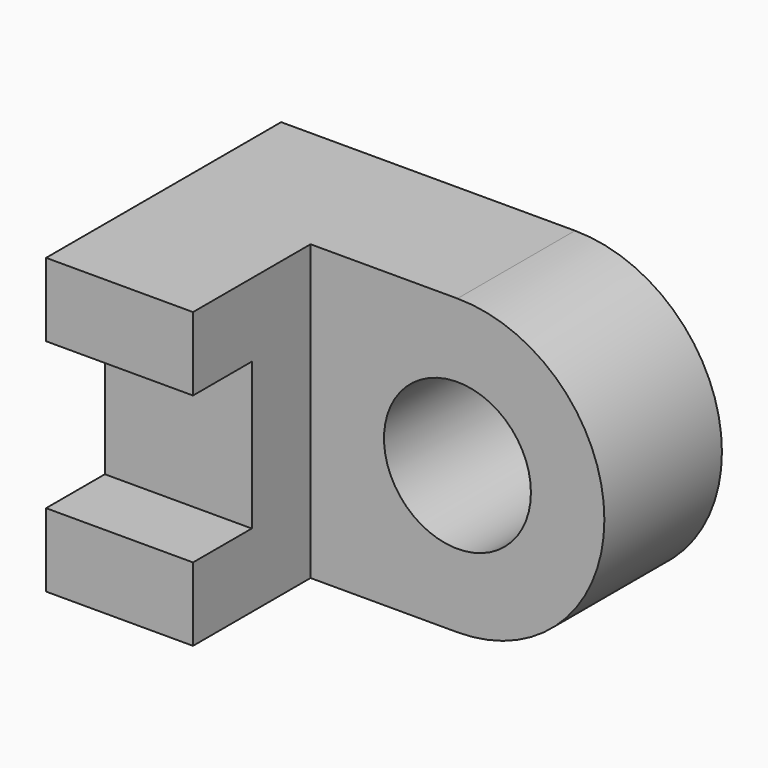
from build123d import *

# Parameters (mm, degrees)
F0_R     = 6.35
F1_DEPTH = 12.7
F3_DEPTH = 12.7


with BuildPart() as f1:
    # F0 (on Front) → F1 (new body)
    with BuildSketch(Plane.XZ):
        with BuildLine():
            Line((25.4, 0), (0, 0))
            Line((0, 0), (0, -25.4))
            Line((0, -25.4), (25.4, -25.4))
            ThreePointArc((25.4, -25.4), (38.1, -12.7), (25.4, 0))
        make_face()
        with Locations((25.4, -12.7)):
            Circle(F0_R, mode=Mode.SUBTRACT)
    extrude(amount=F1_DEPTH)

    # F2 (on Right) → F3 (join)
    with BuildSketch(Plane.YZ):
        Polygon((0, -25.4), (0, 0), (-25.4, 0), (-25.4, -6.35), (-19.05, -6.35), (-19.05, -19.05), (-25.4, -19.05), (-25.4, -25.4), align=None)
    extrude(amount=F3_DEPTH)


solid = f1.part
